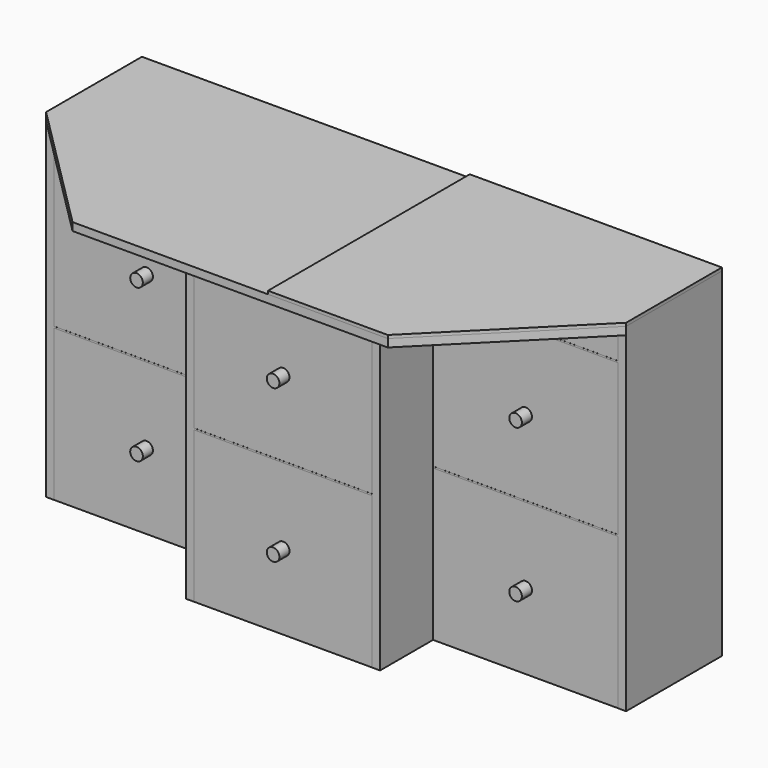
from build123d import *

# Parameters (mm, degrees)
F1_DEPTH  = 15.875
F3_DEPTH  = 666.75
F4_W      = 373.0625
F4_H      = 304.8
F4_H_2    = 50.8
F5_DEPTH  = 225.298
F6_W      = 373.0625
F6_H      = 304.8
F6_H_2    = 50.8
F7_DEPTH  = 225.298
F8_W      = 358.775
F8_H      = 304.8
F8_H_2    = 50.8
F9_DEPTH  = 358.648
F10_R     = 12.7
F11_DEPTH = 25.4
F12_R     = 12.7
F13_DEPTH = 25.4
F14_R     = 12.7
F15_DEPTH = 25.4
F16_R     = 12.7
F17_DEPTH = 25.4
F18_R     = 12.7
F19_DEPTH = 25.4
F20_R     = 12.7
F21_DEPTH = 25.4
F22_R     = 12.7
F23_DEPTH = 25.4
F24_R     = 12.7
F25_DEPTH = 25.4
F26_R     = 12.7
F27_DEPTH = 25.4
F29_DEPTH = 6.35
F30_W     = 358.775
F30_H     = 3.175
F31_DEPTH = 358.775
F32_W     = 358.775
F32_H     = 3.175
F33_DEPTH = 358.775
F34_W     = 373.0625
F34_H     = 3.175
F35_DEPTH = 225.425
F36_W     = 373.0625
F36_H     = 3.175
F37_DEPTH = 225.425
F38_W     = 373.0625
F38_H     = 3.175
F39_DEPTH = 225.425
F40_W     = 373.0625
F40_H     = 3.175
F41_DEPTH = 225.425


with BuildPart() as f1:
    # F0 (on Top) → F1 (new body)
    with BuildSketch(Plane.XY):
        Polygon((584.2, 254), (-584.2, 254), (-584.2, 12.7), (-317.5, -254), (317.5, -254), (584.2, 12.7), align=None)
    extrude(amount=F1_DEPTH)

    # F2 (on face) → F3 (join)
    with BuildSketch(Plane(origin=(0, 0, 0), x_dir=(1, 0, 0), z_dir=(0, 0, -1))):
        Polygon((-568.325, -12.7), (-584.2, -12.7), (-584.2, -254), (-568.325, -254), (568.325, -254), (584.2, -254), (584.2, -12.7), (568.325, -12.7), (568.325, -238.125), (195.2625, -238.125), (179.3875, -238.125), (-179.3875, -238.125), (-195.2625, -238.125), (-568.325, -238.125), align=None)
        Polygon((-195.2625, 120.65), (-195.2625, -238.125), (-179.3875, -238.125), (-179.3875, 120.65), (-187.325, 120.65), align=None)
        Polygon((179.3875, 120.65), (179.3875, -238.125), (195.2625, -238.125), (195.2625, 120.65), (187.325, 120.65), align=None)
    extrude(amount=F3_DEPTH)

    # F4 (on face) → F5 (join)
    with BuildSketch(Plane.XZ.offset(-238.125)):
        with Locations((-381.79375, -514.35)):
            Rectangle(F4_W, F4_H)
        with Locations((-381.79375, -206.375)):
            Rectangle(F4_W, F4_H)
        with Locations((-381.79375, -25.4)):
            Rectangle(F4_W, F4_H_2)
    extrude(amount=F5_DEPTH)

    # F6 (on face) → F7 (join)
    with BuildSketch(Plane.XZ.offset(-238.125)):
        with Locations((381.79375, -514.35)):
            Rectangle(F6_W, F6_H)
        with Locations((381.79375, -206.375)):
            Rectangle(F6_W, F6_H)
        with Locations((381.79375, -25.4)):
            Rectangle(F6_W, F6_H_2)
    extrude(amount=F7_DEPTH)

    # F8 (on face) → F9 (join)
    with BuildSketch(Plane.XZ.offset(-238.125)):
        with Locations((0, -514.35)):
            Rectangle(F8_W, F8_H)
        with Locations((0, -206.375)):
            Rectangle(F8_W, F8_H)
        with Locations((0, -25.4)):
            Rectangle(F8_W, F8_H_2)
    extrude(amount=F9_DEPTH)

    # F10 (on face) → F11 (join)
    with BuildSketch(Plane.XZ.offset(-12.827)):
        with Locations((-381.79375, -514.35)):
            Circle(F10_R)
    extrude(amount=F11_DEPTH)

    # F12 (on face) → F13 (join)
    with BuildSketch(Plane.XZ.offset(-12.827)):
        with Locations((-381.79375, -206.375)):
            Circle(F12_R)
    extrude(amount=F13_DEPTH)

    # F14 (on face) → F15 (join)
    with BuildSketch(Plane.XZ.offset(-12.827)):
        with Locations((-381.79375, -25.4)):
            Circle(F14_R)
    extrude(amount=F15_DEPTH)

    # F16 (on face) → F17 (join)
    with BuildSketch(Plane.XZ.offset(120.523)):
        with Locations((0, -514.35)):
            Circle(F16_R)
    extrude(amount=F17_DEPTH)

    # F18 (on face) → F19 (join)
    with BuildSketch(Plane.XZ.offset(120.523)):
        with Locations((0, -206.375)):
            Circle(F18_R)
    extrude(amount=F19_DEPTH)

    # F20 (on face) → F21 (join)
    with BuildSketch(Plane.XZ.offset(120.523)):
        with Locations((0, -25.4)):
            Circle(F20_R)
    extrude(amount=F21_DEPTH)

    # F22 (on face) → F23 (join)
    with BuildSketch(Plane.XZ.offset(-12.827)):
        with Locations((381.79375, -514.35)):
            Circle(F22_R)
    extrude(amount=F23_DEPTH)

    # F24 (on face) → F25 (join)
    with BuildSketch(Plane.XZ.offset(-12.827)):
        with Locations((381.79375, -206.375)):
            Circle(F24_R)
    extrude(amount=F25_DEPTH)

    # F26 (on face) → F27 (join)
    with BuildSketch(Plane.XZ.offset(-12.827)):
        with Locations((381.79375, -25.4)):
            Circle(F26_R)
    extrude(amount=F27_DEPTH)

    # F30 (on face) → F31 (join)
    with BuildSketch(Plane.XZ.offset(-238.125)):
        with Locations((0, -360.3625)):
            Rectangle(F30_W, F30_H)
    extrude(amount=F31_DEPTH)

    # F32 (on face) → F33 (join)
    with BuildSketch(Plane.XZ.offset(-238.125)):
        with Locations((0, -52.3875)):
            Rectangle(F32_W, F32_H)
    extrude(amount=F33_DEPTH)

    # F34 (on face) → F35 (join)
    with BuildSketch(Plane.XZ.offset(-238.125)):
        with Locations((-381.79375, -360.3625)):
            Rectangle(F34_W, F34_H)
    extrude(amount=F35_DEPTH)

    # F36 (on face) → F37 (join)
    with BuildSketch(Plane.XZ.offset(-238.125)):
        with Locations((-381.79375, -52.3875)):
            Rectangle(F36_W, F36_H)
    extrude(amount=F37_DEPTH)

    # F38 (on face) → F39 (join)
    with BuildSketch(Plane.XZ.offset(-238.125)):
        with Locations((381.79375, -52.3875)):
            Rectangle(F38_W, F38_H)
    extrude(amount=F39_DEPTH)

    # F40 (on face) → F41 (join)
    with BuildSketch(Plane.XZ.offset(-238.125)):
        with Locations((381.79375, -360.3625)):
            Rectangle(F40_W, F40_H)
    extrude(amount=F41_DEPTH)


with BuildPart() as f29:
    # F28 (on face) → F29 (new body)
    with BuildSketch(Plane.XY.offset(15.875)):
        Polygon((584.2, 12.7), (584.2, 254), (76.2, 254), (76.2, -254), (317.5, -254), align=None)
    extrude(amount=F29_DEPTH)


solid = Compound([f1.part, f29.part])
